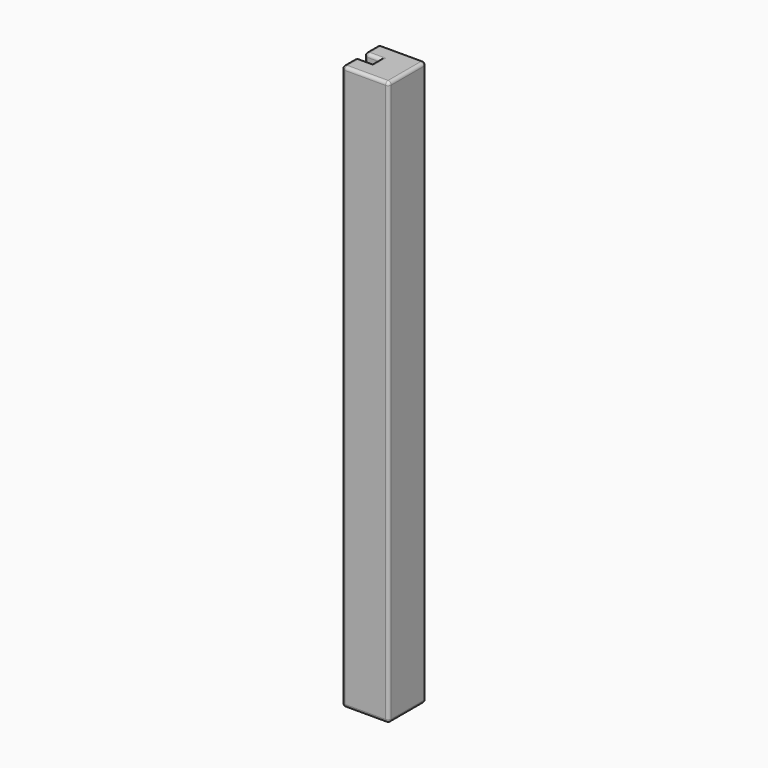
from build123d import *

# Parameters (mm, degrees)
F1_DEPTH = 180
F2_R     = 1


with BuildPart() as f1:
    # F0 (on Top) → F1 (new body)
    with BuildSketch(Plane.XY):
        Polygon((7.5, 7.5), (-7.5, 7.5), (-7.5, 1.5), (-2.5, 1.5), (-2.5, -1.5), (-7.5, -1.5), (-7.5, -7.5), (7.5, -7.5), align=None)
    extrude(amount=F1_DEPTH)

    # F2
    f2_edges = [f1.edges().sort_by_distance(p)[0] for p in [
        (0, 7.5, 180),
        (-7.5, 4.5, 180),
        (-5, 1.5, 180),
        (-2.5, 0, 180),
        (-5, -1.5, 180),
        (-7.5, -4.5, 180),
        (0, -7.5, 180),
        (7.5, 0, 180),
        (0, 7.5, 0),
        (-7.5, 4.5, 0),
        (-5, 1.5, 0),
        (-2.5, 0, 0),
        (-5, -1.5, 0),
        (-7.5, -4.5, 0),
        (0, -7.5, 0),
        (7.5, 0, 0),
        (7.5, 7.5, 90),
        (-7.5, 7.5, 90),
        (7.5, -7.5, 90),
        (-7.5, -1.5, 90),
        (-7.5, -7.5, 90),
        (-7.5, 1.5, 90),
    ]]
    fillet(f2_edges, radius=F2_R)


solid = f1.part
